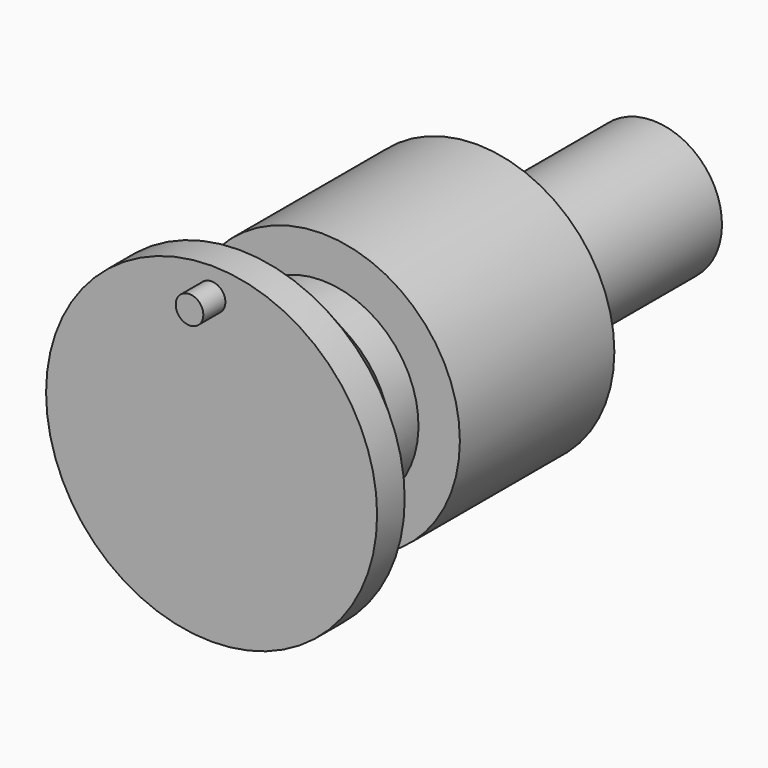
from build123d import *

# Parameters (mm, degrees)
F2_R     = 6.35
F3_DEPTH = 12.7


with BuildPart() as f1:
    # F0 (on Right) → F1 (revolve)
    with BuildSketch(Plane.YZ):
        Polygon((-254, 0), (0, 0), (0, 31.75), (-101.6, 31.75), (-101.6, 63.5), (-190.5, 63.5), (-190.5, 44.45), (-206.375, 44.45), (-238.125, 76.2), (-254, 76.2), align=None)
    revolve(axis=Axis((0, -127, 0), (0, 1, 0)))

    # F2 (on face) → F3 (join)
    with BuildSketch(Plane.XZ.offset(254)):
        with Locations((0, 63.5)):
            Circle(F2_R)
    extrude(amount=F3_DEPTH)


solid = f1.part
